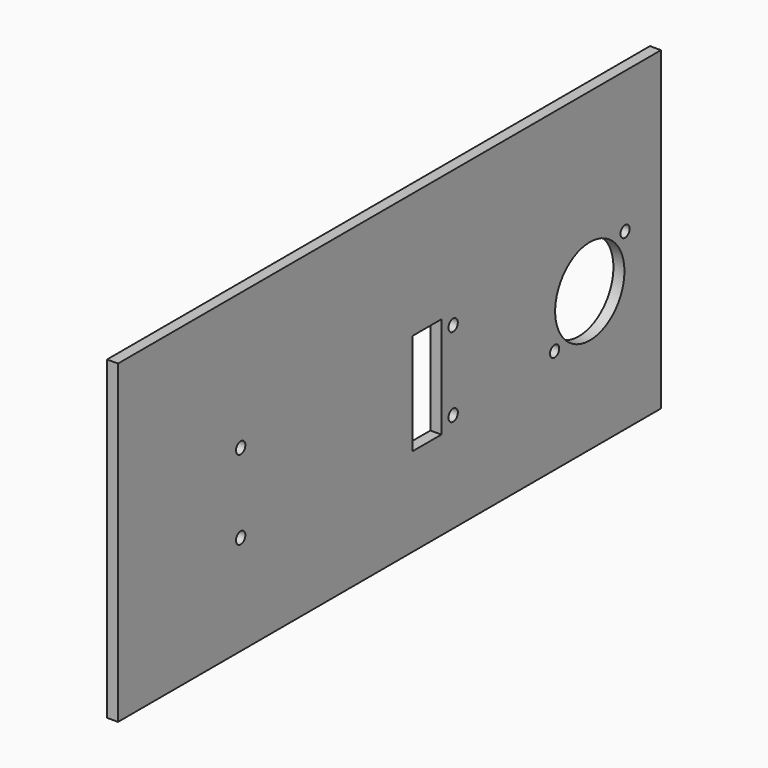
from build123d import *

# Parameters (mm, degrees)
SKETCH_W   = 185
SKETCH_H   = 86
SKETCH_R   = 11.8
SKETCH_R_2 = 1.55
SKETCH_R_3 = 1.6
SKETCH_W_2 = 9.78
SKETCH_H_2 = 27.68
PAD_DEPTH  = 3


with BuildPart() as part:
    # Sketch → Pad (new body)
    with BuildSketch(Plane.YZ):
        Rectangle(SKETCH_W, SKETCH_H)
        with Locations((68.2497, -5)):
            Circle(SKETCH_R, mode=Mode.SUBTRACT)
        with Locations((80.2497, 4.5)):
            Circle(SKETCH_R_2, mode=Mode.SUBTRACT)
        with Locations((56.2497, -14.5)):
            Circle(SKETCH_R_2, mode=Mode.SUBTRACT)
        with Locations((21.6847, 5.795)):
            Circle(SKETCH_R_3, mode=Mode.SUBTRACT)
        with Locations((21.6847, -15.795)):
            Circle(SKETCH_R_3, mode=Mode.SUBTRACT)
        with Locations((-50.7053, 5.795)):
            Circle(SKETCH_R_3, mode=Mode.SUBTRACT)
        with Locations((-50.7053, -15.795)):
            Circle(SKETCH_R_3, mode=Mode.SUBTRACT)
        with Locations((12.7947, -5)):
            Rectangle(SKETCH_W_2, SKETCH_H_2, mode=Mode.SUBTRACT)
    extrude(amount=PAD_DEPTH)


solid = part.part
